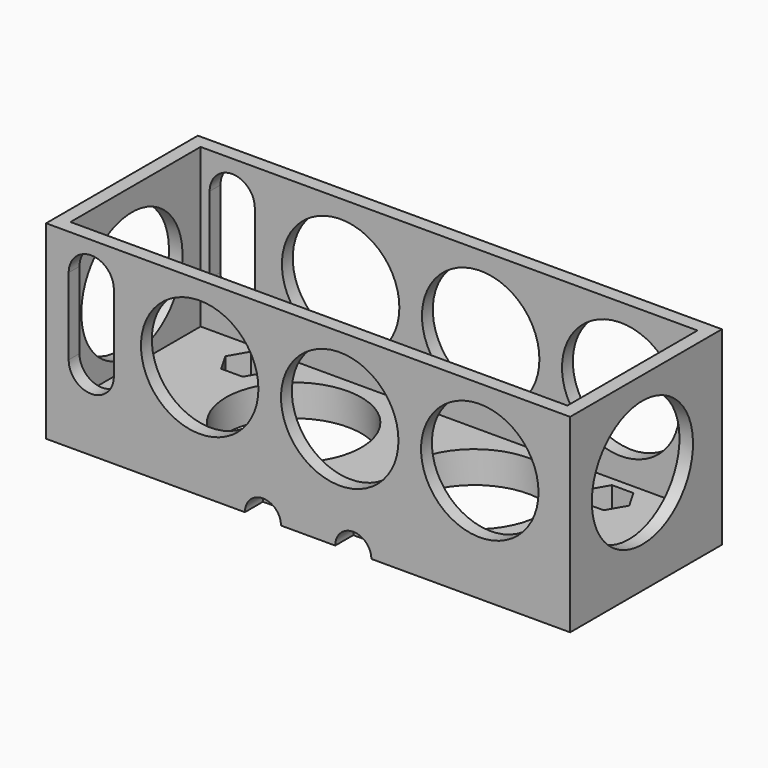
from build123d import *

# Parameters (mm, degrees)
SKETCH_W        = 116
SKETCH_H        = 42
PAD_DEPTH       = 42
SKETCH005_W     = 110
SKETCH005_H     = 36
POCKET_DEPTH    = 35
SKETCH006_R     = 1.75
SKETCH006_R_2   = 15
POCKET001_DEPTH = 7.001
POCKET002_DEPTH = 5
SKETCH007_R     = 13
POCKET003_DEPTH = 42.001
SKETCH008_R     = 14
POCKET004_DEPTH = 116.001
SKETCH012_R     = 4
POCKET005_DEPTH = 5
SKETCH013_R     = 4
POCKET006_DEPTH = 5


with BuildPart() as part:
    # Sketch → Pad (new body)
    with BuildSketch(Plane.XZ):
        with Locations((0, 21)):
            Rectangle(SKETCH_W, SKETCH_H)
    extrude(amount=PAD_DEPTH)

    # Sketch005 → Pocket (cut)
    with BuildSketch(Plane(origin=(0, 0, 42), x_dir=(-1, 0, 0), z_dir=(0, 0, 1))):
        with Locations((0, 21)):
            Rectangle(SKETCH005_W, SKETCH005_H)
    extrude(amount=-POCKET_DEPTH, mode=Mode.SUBTRACT)

    # Sketch006 → Pocket001 (cut, through all)
    with BuildSketch(Plane(origin=(0, 0, 7), x_dir=(-1, 0, 0), z_dir=(0, 0, 1))):
        with Locations((-40, 33.5)):
            Circle(SKETCH006_R)
        with Locations((40, 33.5)):
            Circle(SKETCH006_R)
        with Locations((-40, 9)):
            Circle(SKETCH006_R)
        with Locations((40, 9)):
            Circle(SKETCH006_R)
        with Locations((-20, 21)):
            Circle(SKETCH006_R_2)
        with Locations((20, 21)):
            Circle(SKETCH006_R_2)
    extrude(amount=-POCKET001_DEPTH, mode=Mode.SUBTRACT)

    # Sketch011 → Pocket002 (cut)
    with BuildSketch(Plane(origin=(0, 0, 7), x_dir=(-1, 0, 0), z_dir=(0, 0, 1))):
        Polygon((-42.373287, 37.679591), (-37.615921, 37.679591), (-35.237238, 33.559591), (-37.615921, 29.439591), (-42.373287, 29.439591), (-44.75197, 33.559591), align=None)
        Polygon((37.627177, 37.64135), (42.384544, 37.64135), (44.763227, 33.52135), (42.384544, 29.40135), (37.627177, 29.40135), (35.248494, 33.52135), align=None)
        Polygon((37.575129, 13.14135), (42.332495, 13.14135), (44.711178, 9.02135), (42.332495, 4.90135), (37.575129, 4.90135), (35.196446, 9.02135), align=None)
        Polygon((-42.367844, 13.179591), (-37.610478, 13.179591), (-35.231795, 9.059591), (-37.610478, 4.939591), (-42.367844, 4.939591), (-44.746527, 9.059591), align=None)
    extrude(amount=-POCKET002_DEPTH, mode=Mode.SUBTRACT)

    # Sketch007 → Pocket003 (cut, through all)
    with BuildSketch(Plane(origin=(0, 0, 0), x_dir=(1, 0, 0), z_dir=(0, 1, 0))):
        with Locations((-24, -25)):
            Circle(SKETCH007_R)
        with Locations((7, -25)):
            Circle(SKETCH007_R)
        with Locations((38, -25)):
            Circle(SKETCH007_R)
        with BuildLine():
            ThreePointArc((-43, -16.999991), (-48, -12), (-53, -16.999992))
            Line((-53, -16.999992), (-53, -33.999979))
            ThreePointArc((-53, -33.999979), (-48, -39), (-43, -33.999978))
            Line((-43, -16.999991), (-43, -33.999978))
        make_face()
    extrude(amount=-POCKET003_DEPTH, mode=Mode.SUBTRACT)

    # Sketch008 → Pocket004 (cut, through all)
    with BuildSketch(Plane(origin=(-58, 0, 0), x_dir=(0, 0, -1), z_dir=(-1, 0, 0))):
        with Locations((-23, 22)):
            Circle(SKETCH008_R)
    extrude(amount=-POCKET004_DEPTH, mode=Mode.SUBTRACT)

    # Sketch012 → Pocket005 (cut)
    with BuildSketch(Plane(origin=(0, 0, 0), x_dir=(1, 0, 0), z_dir=(0, 1, 0))):
        with Locations((-10, 0)):
            Circle(SKETCH012_R)
        with Locations((10, 0)):
            Circle(SKETCH012_R)
    extrude(amount=-POCKET005_DEPTH, mode=Mode.SUBTRACT)

    # Sketch013 → Pocket006 (cut)
    with BuildSketch(Plane.XZ.offset(42)):
        with Locations((-10, 0)):
            Circle(SKETCH013_R)
        with Locations((10, 0)):
            Circle(SKETCH013_R)
    extrude(amount=-POCKET006_DEPTH, mode=Mode.SUBTRACT)


solid = part.part
